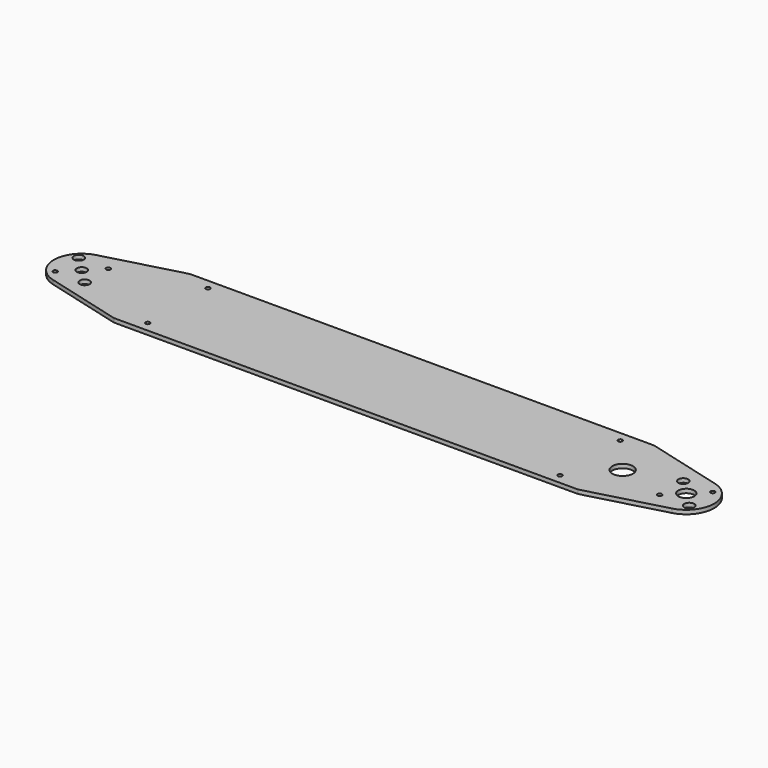
from build123d import *

# Parameters (mm, degrees)
F0_R     = 1.7272
F0_R_2   = 3.96875
F0_R_3   = 8.221183
F0_R_4   = 6.35
F1_DEPTH = 3.175


with BuildPart() as f1:
    # F0 (on Top) → F1 (new body)
    with BuildSketch(Plane.XY):
        with BuildLine():
            Line((-426.540354, 38.03015), (-488.352253, 21.467701))
            ThreePointArc((-488.352253, 21.467701), (-504.825, 0), (-488.352253, -21.467701))
            Line((-488.352253, -21.467701), (-426.540354, -38.03015))
            Line((-426.540354, -38.03015), (-420.190354, -38.03015))
            Line((-420.190354, -38.03015), (-62.409646, -38.03015))
            Line((-62.409646, -38.03015), (-56.059646, -38.03015))
            Line((-56.059646, -38.03015), (5.752253, -21.467701))
            ThreePointArc((5.752253, -21.467701), (22.225, 0), (5.752253, 21.467701))
            Line((5.752253, 21.467701), (-56.059646, 38.03015))
            Line((-56.059646, 38.03015), (-62.409646, 38.03015))
            Line((-62.409646, 38.03015), (-420.190354, 38.03015))
            Line((-420.190354, 38.03015), (-426.540354, 38.03015))
        make_face()
        with Locations((-405.902854, -30.09265)):
            Circle(F0_R, mode=Mode.SUBTRACT)
        with Locations((-494.386586, -11.786586)):
            Circle(F0_R, mode=Mode.SUBTRACT)
        with Locations((-470.813414, -11.786586)):
            Circle(F0_R_2, mode=Mode.SUBTRACT)
        with Locations((-76.697146, -30.09265)):
            Circle(F0_R, mode=Mode.SUBTRACT)
        with Locations((-11.786586, -11.786586)):
            Circle(F0_R, mode=Mode.SUBTRACT)
        with Locations((11.786586, -11.786586)):
            Circle(F0_R_2, mode=Mode.SUBTRACT)
        with Locations((-482.6, 0)):
            Circle(F0_R_2, mode=Mode.SUBTRACT)
        with Locations((-494.386586, 11.786586)):
            Circle(F0_R_2, mode=Mode.SUBTRACT)
        with Locations((-470.813414, 11.786586)):
            Circle(F0_R, mode=Mode.SUBTRACT)
        with Locations((-405.902854, 30.09265)):
            Circle(F0_R, mode=Mode.SUBTRACT)
        with Locations((-50.8, 0)):
            Circle(F0_R_3, mode=Mode.SUBTRACT)
        Circle(F0_R_4, mode=Mode.SUBTRACT)
        with Locations((-11.786586, 11.786586)):
            Circle(F0_R_2, mode=Mode.SUBTRACT)
        with Locations((11.786586, 11.786586)):
            Circle(F0_R, mode=Mode.SUBTRACT)
        with Locations((-76.697146, 30.09265)):
            Circle(F0_R, mode=Mode.SUBTRACT)
    extrude(amount=F1_DEPTH)


solid = f1.part
